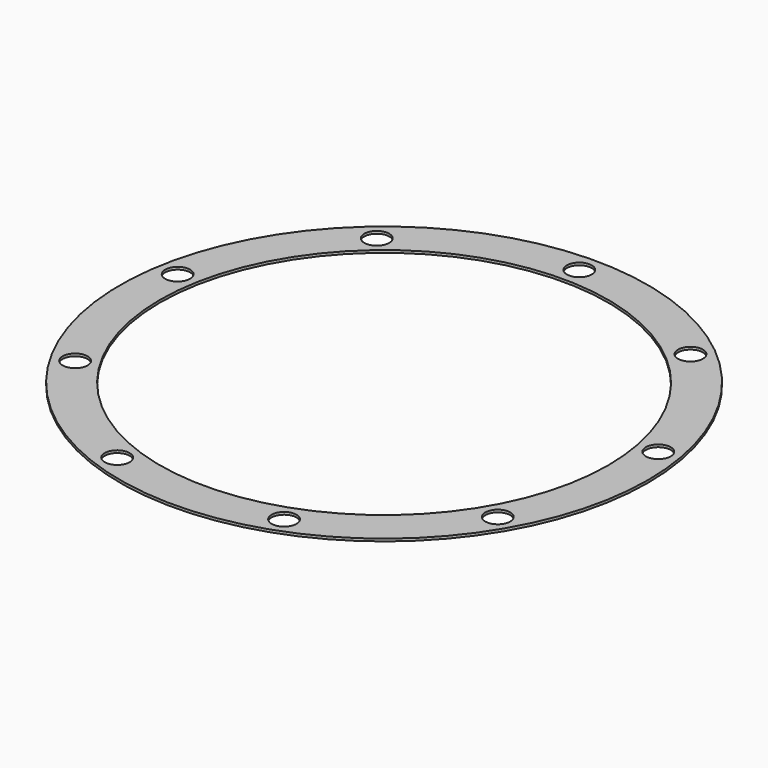
from build123d import *

# Parameters (mm, degrees)
SKETCH_R   = 53
SKETCH_R_2 = 45
SKETCH_R_3 = 2.5
PAD_DEPTH  = 0.5


with BuildPart() as part:
    # Sketch → Pad (new body)
    with BuildSketch(Plane.XY):
        Circle(SKETCH_R)
        Circle(SKETCH_R_2, mode=Mode.SUBTRACT)
        with Locations((31.496593, 37.536178)):
            Circle(SKETCH_R_3, mode=Mode.SUBTRACT)
        with Locations((48.25558, 8.508761)):
            Circle(SKETCH_R_3, mode=Mode.SUBTRACT)
        with Locations((42.435245, -24.5)):
            Circle(SKETCH_R_3, mode=Mode.SUBTRACT)
        with Locations((16.758987, -46.044938)):
            Circle(SKETCH_R_3, mode=Mode.SUBTRACT)
        with Locations((-16.758987, -46.044938)):
            Circle(SKETCH_R_3, mode=Mode.SUBTRACT)
        with Locations((-42.435245, -24.5)):
            Circle(SKETCH_R_3, mode=Mode.SUBTRACT)
        with Locations((-48.25558, 8.508761)):
            Circle(SKETCH_R_3, mode=Mode.SUBTRACT)
        with Locations((-31.496593, 37.536178)):
            Circle(SKETCH_R_3, mode=Mode.SUBTRACT)
        with Locations((0, 49)):
            Circle(SKETCH_R_3, mode=Mode.SUBTRACT)
    extrude(amount=PAD_DEPTH)


solid = part.part
